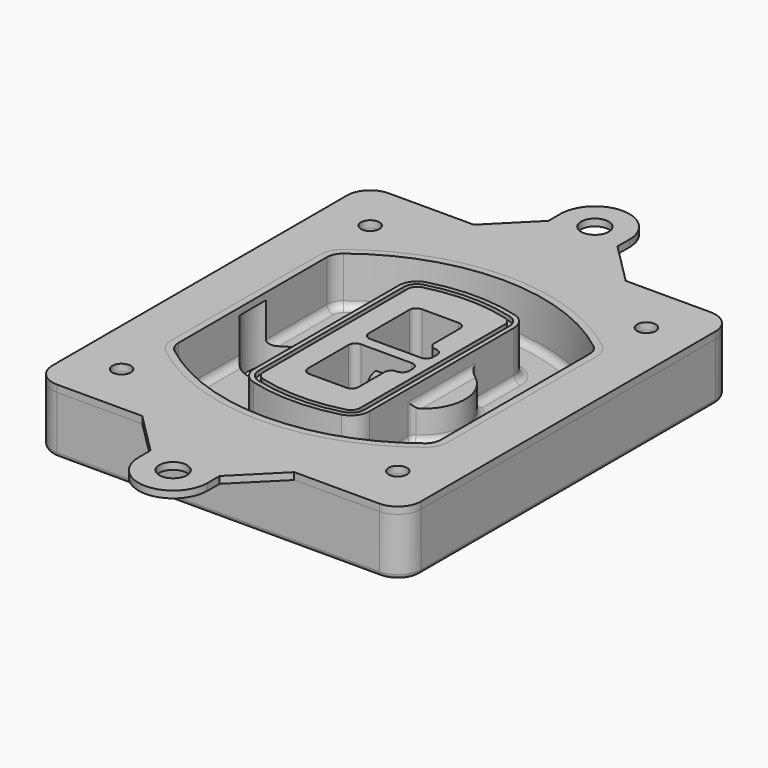
from build123d import *

# Parameters (mm, degrees)
F0_R      = 4
F1_DEPTH  = 25
F2_DEPTH  = 3
F3_DEPTH  = 18
F5_DEPTH  = 21
F6_DEPTH  = 2
F8_DEPTH  = 20
F9_DEPTH  = 16
F10_DEPTH = 25
F7_R      = 6
F7_R_2    = 4
F11_DEPTH = 6
F13_DEPTH = 9
F14_R     = 3
F15_R     = 2
F16_R     = 6
F16_R_2   = 4
F17_DEPTH = 3


with BuildPart() as f1:
    # F0 (on Top) → F1 (new body)
    with BuildSketch(Plane.XY):
        with BuildLine():
            ThreePointArc((-80, -80), (-77.0710678119, -87.0710678119), (-70, -90))
            Line((-70, -90), (70, -90))
            ThreePointArc((70, -90), (77.0710678119, -87.0710678119), (80, -80))
            Line((80, -80), (80, 80))
            ThreePointArc((80, 80), (77.0710678119, 87.0710678119), (70, 90))
            Line((70, 90), (-70, 90))
            ThreePointArc((-70, 90), (-77.0710678119, 87.0710678119), (-80, 80))
            Line((-80, 80), (-80, -80))
        make_face()
        with Locations((-60, -67.5)):
            Circle(F0_R, mode=Mode.SUBTRACT)
        with Locations((60, -67.5)):
            Circle(F0_R, mode=Mode.SUBTRACT)
        with Locations((-60, 67.5)):
            Circle(F0_R, mode=Mode.SUBTRACT)
        with BuildLine():
            ThreePointArc((-64, 40.2934422872), (-62.5820384798, 46.4328484224), (-58.6153846154, 51.3286200352))
            ThreePointArc((-58.6153846154, 51.3286200352), (0, 71.5), (58.6153846154, 51.3286200352))
            ThreePointArc((58.6153846154, 51.3286200352), (62.5820384798, 46.4328484224), (64, 40.2934422872))
            Line((64, 40.2934422872), (64, -40.2934422872))
            ThreePointArc((64, -40.2934422872), (62.5820384798, -46.4328484224), (58.6153846154, -51.3286200352))
            ThreePointArc((58.6153846154, -51.3286200352), (0, -71.5), (-58.6153846154, -51.3286200352))
            ThreePointArc((-58.6153846154, -51.3286200352), (-62.5820384798, -46.4328484224), (-64, -40.2934422872))
            Line((-64, -40.2934422872), (-64, 40.2934422872))
        make_face(mode=Mode.SUBTRACT)
        with Locations((60, 67.5)):
            Circle(F0_R, mode=Mode.SUBTRACT)
        with BuildLine():
            ThreePointArc((58.6153846154, 51.3286200352), (0, 71.5), (-58.6153846154, 51.3286200352))
            ThreePointArc((-58.6153846154, 51.3286200352), (-62.5820384798, 46.4328484224), (-64, 40.2934422872))
            Line((-64, 40.2934422872), (-64, -40.2934422872))
            ThreePointArc((-64, -40.2934422872), (-62.5820384798, -46.4328484224), (-58.6153846154, -51.3286200352))
            ThreePointArc((-58.6153846154, -51.3286200352), (0, -71.5), (58.6153846154, -51.3286200352))
            ThreePointArc((58.6153846154, -51.3286200352), (62.5820384798, -46.4328484224), (64, -40.2934422872))
            Line((64, -40.2934422872), (64, 40.2934422872))
            ThreePointArc((64, 40.2934422872), (62.5820384798, 46.4328484224), (58.6153846154, 51.3286200352))
        make_face()
        with BuildLine():
            Line((-60, -40.2934422872), (-60, 40.2934422872))
            ThreePointArc((-60, 40.2934422872), (-58.9871703427, 44.6787323838), (-56.1538461538, 48.1757121072))
            ThreePointArc((-56.1538461538, 48.1757121072), (0, 67.5), (56.1538461538, 48.1757121072))
            ThreePointArc((56.1538461538, 48.1757121072), (58.9871703427, 44.6787323838), (60, 40.2934422872))
            Line((60, 40.2934422872), (60, -40.2934422872))
            ThreePointArc((60, -40.2934422872), (58.9871703427, -44.6787323838), (56.1538461538, -48.1757121072))
            ThreePointArc((56.1538461538, -48.1757121072), (0, -67.5), (-56.1538461538, -48.1757121072))
            ThreePointArc((-56.1538461538, -48.1757121072), (-58.9871703427, -44.6787323838), (-60, -40.2934422872))
        make_face(mode=Mode.SUBTRACT)
        with BuildLine():
            ThreePointArc((-56.1538461538, 48.1757121072), (-58.9871703427, 44.6787323838), (-60, 40.2934422872))
            Line((-60, 40.2934422872), (-60, -40.2934422872))
            ThreePointArc((-60, -40.2934422872), (-58.9871703427, -44.6787323838), (-56.1538461538, -48.1757121072))
            ThreePointArc((-56.1538461538, -48.1757121072), (0, -67.5), (56.1538461538, -48.1757121072))
            ThreePointArc((56.1538461538, -48.1757121072), (58.9871703427, -44.6787323838), (60, -40.2934422872))
            Line((60, -40.2934422872), (60, 40.2934422872))
            ThreePointArc((60, 40.2934422872), (58.9871703427, 44.6787323838), (56.1538461538, 48.1757121072))
            ThreePointArc((56.1538461538, 48.1757121072), (0, 67.5), (-56.1538461538, 48.1757121072))
        make_face()
        with BuildLine():
            ThreePointArc((54.3076923077, 45.8110311612), (56.2910192399, 43.3631453548), (57, 40.2934422872))
            Line((57, 40.2934422872), (57, -40.2934422872))
            ThreePointArc((57, -40.2934422872), (56.2910192399, -43.3631453548), (54.3076923077, -45.8110311612))
            ThreePointArc((54.3076923077, -45.8110311612), (0, -64.5), (-54.3076923077, -45.8110311612))
            ThreePointArc((-54.3076923077, -45.8110311612), (-56.2910192399, -43.3631453548), (-57, -40.2934422872))
            Line((-57, -40.2934422872), (-57, 40.2934422872))
            ThreePointArc((-57, 40.2934422872), (-56.2910192399, 43.3631453548), (-54.3076923077, 45.8110311612))
            ThreePointArc((-54.3076923077, 45.8110311612), (0, 64.5), (54.3076923077, 45.8110311612))
        make_face(mode=Mode.SUBTRACT)
        with BuildLine():
            Line((57, -40.2934422872), (57, 40.2934422872))
            ThreePointArc((57, 40.2934422872), (56.2910192399, 43.3631453548), (54.3076923077, 45.8110311612))
            ThreePointArc((54.3076923077, 45.8110311612), (0, 64.5), (-54.3076923077, 45.8110311612))
            ThreePointArc((-54.3076923077, 45.8110311612), (-56.2910192399, 43.3631453548), (-57, 40.2934422872))
            Line((-57, 40.2934422872), (-57, -40.2934422872))
            ThreePointArc((-57, -40.2934422872), (-56.2910192399, -43.3631453548), (-54.3076923077, -45.8110311612))
            ThreePointArc((-54.3076923077, -45.8110311612), (0, -64.5), (54.3076923077, -45.8110311612))
            ThreePointArc((54.3076923077, -45.8110311612), (56.2910192399, -43.3631453548), (57, -40.2934422872))
        make_face()
    extrude(amount=-F1_DEPTH)

    # F0 (on Top) → F2 (join)
    with BuildSketch(Plane.XY):
        with BuildLine():
            ThreePointArc((-56.1538461538, 48.1757121072), (-58.9871703427, 44.6787323838), (-60, 40.2934422872))
            Line((-60, 40.2934422872), (-60, -40.2934422872))
            ThreePointArc((-60, -40.2934422872), (-58.9871703427, -44.6787323838), (-56.1538461538, -48.1757121072))
            ThreePointArc((-56.1538461538, -48.1757121072), (0, -67.5), (56.1538461538, -48.1757121072))
            ThreePointArc((56.1538461538, -48.1757121072), (58.9871703427, -44.6787323838), (60, -40.2934422872))
            Line((60, -40.2934422872), (60, 40.2934422872))
            ThreePointArc((60, 40.2934422872), (58.9871703427, 44.6787323838), (56.1538461538, 48.1757121072))
            ThreePointArc((56.1538461538, 48.1757121072), (0, 67.5), (-56.1538461538, 48.1757121072))
        make_face()
        with BuildLine():
            ThreePointArc((54.3076923077, 45.8110311612), (56.2910192399, 43.3631453548), (57, 40.2934422872))
            Line((57, 40.2934422872), (57, -40.2934422872))
            ThreePointArc((57, -40.2934422872), (56.2910192399, -43.3631453548), (54.3076923077, -45.8110311612))
            ThreePointArc((54.3076923077, -45.8110311612), (0, -64.5), (-54.3076923077, -45.8110311612))
            ThreePointArc((-54.3076923077, -45.8110311612), (-56.2910192399, -43.3631453548), (-57, -40.2934422872))
            Line((-57, -40.2934422872), (-57, 40.2934422872))
            ThreePointArc((-57, 40.2934422872), (-56.2910192399, 43.3631453548), (-54.3076923077, 45.8110311612))
            ThreePointArc((-54.3076923077, 45.8110311612), (0, 64.5), (54.3076923077, 45.8110311612))
        make_face(mode=Mode.SUBTRACT)
    extrude(amount=F2_DEPTH)

    # F0 (on Top) → F3 (cut)
    with BuildSketch(Plane.XY):
        with BuildLine():
            Line((57, -40.2934422872), (57, 40.2934422872))
            ThreePointArc((57, 40.2934422872), (56.2910192399, 43.3631453548), (54.3076923077, 45.8110311612))
            ThreePointArc((54.3076923077, 45.8110311612), (0, 64.5), (-54.3076923077, 45.8110311612))
            ThreePointArc((-54.3076923077, 45.8110311612), (-56.2910192399, 43.3631453548), (-57, 40.2934422872))
            Line((-57, 40.2934422872), (-57, -40.2934422872))
            ThreePointArc((-57, -40.2934422872), (-56.2910192399, -43.3631453548), (-54.3076923077, -45.8110311612))
            ThreePointArc((-54.3076923077, -45.8110311612), (0, -64.5), (54.3076923077, -45.8110311612))
            ThreePointArc((54.3076923077, -45.8110311612), (56.2910192399, -43.3631453548), (57, -40.2934422872))
        make_face()
    extrude(amount=-F3_DEPTH, mode=Mode.SUBTRACT)

    # F4 (on face) → F5 (join, through all)
    with BuildSketch(Plane.XY.offset(3)):
        with BuildLine():
            ThreePointArc((-25, -39.2465276821), (-23.3511545998, -44.1109737193), (-19.0842911877, -46.9702398883))
            ThreePointArc((-19.0842911877, -46.9702398883), (0, -49.5), (19.0842911877, -46.9702398883))
            ThreePointArc((19.0842911877, -46.9702398883), (23.3511545998, -44.1109737193), (25, -39.2465276821))
            Line((25, -39.2465276821), (25, 39.2465276821))
            ThreePointArc((25, 39.2465276821), (23.3511545998, 44.1109737193), (19.0842911877, 46.9702398883))
            ThreePointArc((19.0842911877, 46.9702398883), (0, 49.5), (-19.0842911877, 46.9702398883))
            ThreePointArc((-19.0842911877, 46.9702398883), (-23.3511545998, 44.1109737193), (-25, 39.2465276821))
            Line((-25, 39.2465276821), (-25, -39.2465276821))
        make_face()
        with BuildLine():
            ThreePointArc((18.5632183908, 45.0393118368), (21.7633659499, 42.89486221), (23, 39.2465276821))
            Line((23, 39.2465276821), (23, -39.2465276821))
            ThreePointArc((23, -39.2465276821), (21.7633659499, -42.89486221), (18.5632183908, -45.0393118368))
            ThreePointArc((18.5632183908, -45.0393118368), (0, -47.5), (-18.5632183908, -45.0393118368))
            ThreePointArc((-18.5632183908, -45.0393118368), (-21.7633659499, -42.89486221), (-23, -39.2465276821))
            Line((-23, -39.2465276821), (-23, 39.2465276821))
            ThreePointArc((-23, 39.2465276821), (-21.7633659499, 42.89486221), (-18.5632183908, 45.0393118368))
            ThreePointArc((-18.5632183908, 45.0393118368), (0, 47.5), (18.5632183908, 45.0393118368))
        make_face(mode=Mode.SUBTRACT)
        with BuildLine():
            Line((23, -39.2465276821), (23, 39.2465276821))
            ThreePointArc((23, 39.2465276821), (21.7633659499, 42.89486221), (18.5632183908, 45.0393118368))
            ThreePointArc((18.5632183908, 45.0393118368), (0, 47.5), (-18.5632183908, 45.0393118368))
            ThreePointArc((-18.5632183908, 45.0393118368), (-21.7633659499, 42.89486221), (-23, 39.2465276821))
            Line((-23, 39.2465276821), (-23, -39.2465276821))
            ThreePointArc((-23, -39.2465276821), (-21.7633659499, -42.89486221), (-18.5632183908, -45.0393118368))
            ThreePointArc((-18.5632183908, -45.0393118368), (0, -47.5), (18.5632183908, -45.0393118368))
            ThreePointArc((18.5632183908, -45.0393118368), (21.7633659499, -42.89486221), (23, -39.2465276821))
        make_face()
        with BuildLine():
            ThreePointArc((18.0421455939, 43.1083837852), (20.1755772999, 41.6787507007), (21, 39.2465276821))
            Line((21, 39.2465276821), (21, -39.2465276821))
            ThreePointArc((21, -39.2465276821), (20.1755772999, -41.6787507007), (18.0421455939, -43.1083837852))
            ThreePointArc((18.0421455939, -43.1083837852), (0, -45.5), (-18.0421455939, -43.1083837852))
            ThreePointArc((-18.0421455939, -43.1083837852), (-20.1755772999, -41.6787507007), (-21, -39.2465276821))
            Line((-21, -39.2465276821), (-21, 39.2465276821))
            ThreePointArc((-21, 39.2465276821), (-20.1755772999, 41.6787507007), (-18.0421455939, 43.1083837852))
            ThreePointArc((-18.0421455939, 43.1083837852), (0, 45.5), (18.0421455939, 43.1083837852))
        make_face(mode=Mode.SUBTRACT)
        with BuildLine():
            Line((21, -39.2465276821), (21, 39.2465276821))
            ThreePointArc((21, 39.2465276821), (20.1755772999, 41.6787507007), (18.0421455939, 43.1083837852))
            ThreePointArc((18.0421455939, 43.1083837852), (0, 45.5), (-18.0421455939, 43.1083837852))
            ThreePointArc((-18.0421455939, 43.1083837852), (-20.1755772999, 41.6787507007), (-21, 39.2465276821))
            Line((-21, 39.2465276821), (-21, -39.2465276821))
            ThreePointArc((-21, -39.2465276821), (-20.1755772999, -41.6787507007), (-18.0421455939, -43.1083837852))
            ThreePointArc((-18.0421455939, -43.1083837852), (0, -45.5), (18.0421455939, -43.1083837852))
            ThreePointArc((18.0421455939, -43.1083837852), (20.1755772999, -41.6787507007), (21, -39.2465276821))
        make_face()
        with BuildLine():
            Line((-8, -2.5), (14, -2.5))
            ThreePointArc((14, -2.5), (16.1213203436, -3.3786796564), (17, -5.5))
            Line((17, -5.5), (17, -7.5))
            ThreePointArc((17, -7.5), (16.1213203436, -9.6213203436), (14, -10.5))
            ThreePointArc((14, -10.5), (11.8786796564, -11.3786796564), (11, -13.5))
            Line((11, -13.5), (11, -27.5))
            ThreePointArc((11, -27.5), (10.1213203436, -29.6213203436), (8, -30.5))
            Line((8, -30.5), (-8, -30.5))
            ThreePointArc((-8, -30.5), (-10.1213203436, -29.6213203436), (-11, -27.5))
            Line((-11, -27.5), (-11, -5.5))
            ThreePointArc((-11, -5.5), (-10.1213203436, -3.3786796564), (-8, -2.5))
        make_face(mode=Mode.SUBTRACT)
        with BuildLine():
            ThreePointArc((-8, 2.5), (-10.1213203436, 3.3786796564), (-11, 5.5))
            Line((-11, 5.5), (-11, 27.5))
            ThreePointArc((-11, 27.5), (-10.1213203436, 29.6213203436), (-8, 30.5))
            Line((-8, 30.5), (8, 30.5))
            ThreePointArc((8, 30.5), (10.1213203436, 29.6213203436), (11, 27.5))
            Line((11, 27.5), (11, 13.5))
            ThreePointArc((11, 13.5), (11.8786796564, 11.3786796564), (14, 10.5))
            ThreePointArc((14, 10.5), (16.1213203436, 9.6213203436), (17, 7.5))
            Line((17, 7.5), (17, 5.5))
            ThreePointArc((17, 5.5), (16.1213203436, 3.3786796564), (14, 2.5))
            Line((14, 2.5), (-8, 2.5))
        make_face(mode=Mode.SUBTRACT)
    extrude(amount=-F5_DEPTH)

    # F4 (on face) → F6 (cut)
    with BuildSketch(Plane.XY.offset(3)):
        with BuildLine():
            Line((23, -39.2465276821), (23, 39.2465276821))
            ThreePointArc((23, 39.2465276821), (21.7633659499, 42.89486221), (18.5632183908, 45.0393118368))
            ThreePointArc((18.5632183908, 45.0393118368), (0, 47.5), (-18.5632183908, 45.0393118368))
            ThreePointArc((-18.5632183908, 45.0393118368), (-21.7633659499, 42.89486221), (-23, 39.2465276821))
            Line((-23, 39.2465276821), (-23, -39.2465276821))
            ThreePointArc((-23, -39.2465276821), (-21.7633659499, -42.89486221), (-18.5632183908, -45.0393118368))
            ThreePointArc((-18.5632183908, -45.0393118368), (0, -47.5), (18.5632183908, -45.0393118368))
            ThreePointArc((18.5632183908, -45.0393118368), (21.7633659499, -42.89486221), (23, -39.2465276821))
        make_face()
        with BuildLine():
            ThreePointArc((18.0421455939, 43.1083837852), (20.1755772999, 41.6787507007), (21, 39.2465276821))
            Line((21, 39.2465276821), (21, -39.2465276821))
            ThreePointArc((21, -39.2465276821), (20.1755772999, -41.6787507007), (18.0421455939, -43.1083837852))
            ThreePointArc((18.0421455939, -43.1083837852), (0, -45.5), (-18.0421455939, -43.1083837852))
            ThreePointArc((-18.0421455939, -43.1083837852), (-20.1755772999, -41.6787507007), (-21, -39.2465276821))
            Line((-21, -39.2465276821), (-21, 39.2465276821))
            ThreePointArc((-21, 39.2465276821), (-20.1755772999, 41.6787507007), (-18.0421455939, 43.1083837852))
            ThreePointArc((-18.0421455939, 43.1083837852), (0, 45.5), (18.0421455939, 43.1083837852))
        make_face(mode=Mode.SUBTRACT)
    extrude(amount=-F6_DEPTH, mode=Mode.SUBTRACT)

    # F7 (on face) → F8 (join)
    with BuildSketch(Plane(origin=(0, 0, -25), x_dir=(1, 0, 0), z_dir=(0, 0, -1))):
        with BuildLine():
            ThreePointArc((3.28842436, 0), (16.7567035675, 13.4682792075), (30.224982775, 0))
            Line((30.224982775, 0), (35.224982775, 0))
            ThreePointArc((35.224982775, 0), (16.7567035675, 18.4682792075), (-1.71157564, 0))
            Line((-1.71157564, 0), (3.28842436, 0))
        make_face()
        with BuildLine():
            Line((3.28842436, 0), (30.224982775, 0))
            ThreePointArc((30.224982775, 0), (16.7567035675, 13.4682792075), (3.28842436, 0))
        make_face()
        with BuildLine():
            ThreePointArc((3.28842436, 0), (16.7567035675, -13.4682792075), (30.224982775, 0))
            Line((30.224982775, 0), (3.28842436, 0))
        make_face()
        with BuildLine():
            Line((35.224982775, 0), (30.224982775, 0))
            ThreePointArc((30.224982775, 0), (16.7567035675, -13.4682792075), (3.28842436, 0))
            Line((3.28842436, 0), (-1.71157564, 0))
            ThreePointArc((-1.71157564, 0), (16.7567035675, -18.4682792075), (35.224982775, 0))
        make_face()
    extrude(amount=-F8_DEPTH)

    # F7 (on face) → F9 (cut)
    with BuildSketch(Plane(origin=(0, 0, -25), x_dir=(1, 0, 0), z_dir=(0, 0, -1))):
        with BuildLine():
            Line((3.28842436, 0), (30.224982775, 0))
            ThreePointArc((30.224982775, 0), (16.7567035675, 13.4682792075), (3.28842436, 0))
        make_face()
        with BuildLine():
            ThreePointArc((3.28842436, 0), (16.7567035675, -13.4682792075), (30.224982775, 0))
            Line((30.224982775, 0), (3.28842436, 0))
        make_face()
    extrude(amount=-F9_DEPTH, mode=Mode.SUBTRACT)

    # F7 (on face) → F10 (cut)
    with BuildSketch(Plane(origin=(0, 0, -25), x_dir=(1, 0, 0), z_dir=(0, 0, -1))):
        with BuildLine():
            Line((-59.0318229325, 0), (-32.0952645175, 0))
            ThreePointArc((-32.0952645175, 0), (-45.563543725, 13.4682792075), (-59.0318229325, 0))
        make_face()
        with BuildLine():
            ThreePointArc((-59.0318229325, 0), (-45.563543725, -13.4682792075), (-32.0952645175, 0))
            Line((-32.0952645175, 0), (-59.0318229325, 0))
        make_face()
    extrude(amount=-F10_DEPTH, mode=Mode.SUBTRACT)

    # F7 (on face) → F11 (cut)
    with BuildSketch(Plane(origin=(0, 0, -25), x_dir=(1, 0, 0), z_dir=(0, 0, -1))):
        with Locations((60, -67.5)):
            Circle(F7_R)
        with Locations((60, -67.5)):
            Circle(F7_R_2, mode=Mode.SUBTRACT)
        with Locations((60, -67.5)):
            Circle(F7_R)
        with Locations((60, -67.5)):
            Circle(F7_R_2, mode=Mode.SUBTRACT)
        with Locations((-60, -67.5)):
            Circle(F7_R)
        with Locations((-60, -67.5)):
            Circle(F7_R_2, mode=Mode.SUBTRACT)
        with Locations((-60, -67.5)):
            Circle(F7_R)
        with Locations((-60, -67.5)):
            Circle(F7_R_2, mode=Mode.SUBTRACT)
        with Locations((-60, 67.5)):
            Circle(F7_R)
        with Locations((-60, 67.5)):
            Circle(F7_R_2, mode=Mode.SUBTRACT)
        with Locations((-60, 67.5)):
            Circle(F7_R)
        with Locations((-60, 67.5)):
            Circle(F7_R_2, mode=Mode.SUBTRACT)
        with Locations((60, 67.5)):
            Circle(F7_R)
        with Locations((60, 67.5)):
            Circle(F7_R_2, mode=Mode.SUBTRACT)
        with Locations((60, 67.5)):
            Circle(F7_R)
        with Locations((60, 67.5)):
            Circle(F7_R_2, mode=Mode.SUBTRACT)
    extrude(amount=-F11_DEPTH, mode=Mode.SUBTRACT)

    # F12 (on face) → F13 (cut, through all)
    with BuildSketch(Plane(origin=(0, 0, -9), x_dir=(1, 0, 0), z_dir=(0, 0, -1))):
        with BuildLine():
            Line((11, 13.5), (11, 17.5481537753))
            ThreePointArc((11, 17.5481537753), (2.5696536419, 11.8239143813), (-1.5415842455, 2.5))
            Line((-1.5415842455, 2.5), (3.5224848595, 2.5))
            ThreePointArc((3.5224848595, 2.5), (6.1857188154, 8.3455872281), (11.2536447004, 12.2927168648))
            ThreePointArc((11.2536447004, 12.2927168648), (11.0640958889, 12.8831798879), (11, 13.5))
        make_face()
        with BuildLine():
            ThreePointArc((11.2536447004, -12.2927168648), (6.1857188154, -8.3455872281), (3.5224848595, -2.5))
            Line((3.5224848595, -2.5), (-1.5415842455, -2.5))
            ThreePointArc((-1.5415842455, -2.5), (2.5696536419, -11.8239143813), (11, -17.5481537753))
            Line((11, -17.5481537753), (11, -13.5))
            ThreePointArc((11, -13.5), (11.0640958889, -12.8831798879), (11.2536447004, -12.2927168648))
        make_face()
        with BuildLine():
            ThreePointArc((11.2536447004, 12.2927168648), (6.1857188154, 8.3455872281), (3.5224848595, 2.5))
            Line((3.5224848595, 2.5), (14, 2.5))
            ThreePointArc((14, 2.5), (16.1213203436, 3.3786796564), (17, 5.5))
            Line((17, 5.5), (17, 7.5))
            ThreePointArc((17, 7.5), (16.1213203436, 9.6213203436), (14, 10.5))
            ThreePointArc((14, 10.5), (12.3601599782, 10.9878446101), (11.2536447004, 12.2927168648))
        make_face()
        with BuildLine():
            Line((14, -2.5), (3.5224848595, -2.5))
            ThreePointArc((3.5224848595, -2.5), (6.1857188154, -8.3455872281), (11.2536447004, -12.2927168648))
            ThreePointArc((11.2536447004, -12.2927168648), (12.3601599782, -10.9878446101), (14, -10.5))
            ThreePointArc((14, -10.5), (16.1213203436, -9.6213203436), (17, -7.5))
            Line((17, -7.5), (17, -5.5))
            ThreePointArc((17, -5.5), (16.1213203436, -3.3786796564), (14, -2.5))
        make_face()
    extrude(amount=F13_DEPTH, mode=Mode.SUBTRACT)

    # F14
    f14_edges = [f1.edges().sort_by_distance(p)[0] for p in [
        (-57, -23.703476, -18),
        (-57, 23.703476, -18),
        (25, 0, -5),
        (25, 16.526506, -11.5),
        (25, -16.526506, -11.5),
        (25, -27.886517, -18),
        (35.224983, 0, -18),
    ]]
    fillet(f14_edges, radius=F14_R)

    # F15
    f15_edges = [f1.edges().sort_by_distance(p)[0] for p in [
        (0, -90, -25),
    ]]
    fillet(f15_edges, radius=F15_R)


with BuildPart() as f17:
    # F16 (on face) → F17 (new body, through all)
    with BuildSketch(Plane.XY):
        with BuildLine():
            Line((-15, 108), (-33, 90))
            Line((-33, 90), (33, 90))
            Line((33, 90), (15, 108))
            Line((15, 108), (15, 114.5147186258))
            ThreePointArc((15, 114.5147186258), (0, 129.5147186258), (-15, 114.5147186258))
            Line((-15, 114.5147186258), (-15, 108))
        make_face()
        with Locations((0, 114.5147186258)):
            Circle(F16_R, mode=Mode.SUBTRACT)
        with BuildLine():
            Line((33, 90), (-33, 90))
            Line((-33, 90), (-70, 90))
            ThreePointArc((-70, 90), (-77.0710678119, 87.0710678119), (-80, 80))
            Line((-80, 80), (-80, -80))
            ThreePointArc((-80, -80), (-77.0710678119, -87.0710678119), (-70, -90))
            Line((-70, -90), (-33, -90))
            Line((-33, -90), (33, -90))
            Line((33, -90), (70, -90))
            ThreePointArc((70, -90), (77.0710678119, -87.0710678119), (80, -80))
            Line((80, -80), (80, 80))
            ThreePointArc((80, 80), (77.0710678119, 87.0710678119), (70, 90))
            Line((70, 90), (33, 90))
        make_face()
        with Locations((-60, -67.5)):
            Circle(F16_R_2, mode=Mode.SUBTRACT)
        with Locations((60, -67.5)):
            Circle(F16_R_2, mode=Mode.SUBTRACT)
        with Locations((-60, 67.5)):
            Circle(F16_R_2, mode=Mode.SUBTRACT)
        with BuildLine():
            ThreePointArc((-60, 40.2934422872), (-58.9871703427, 44.6787323838), (-56.1538461538, 48.1757121072))
            ThreePointArc((-56.1538461538, 48.1757121072), (0, 67.5), (56.1538461538, 48.1757121072))
            ThreePointArc((56.1538461538, 48.1757121072), (58.9871703427, 44.6787323838), (60, 40.2934422872))
            Line((60, 40.2934422872), (60, -40.2934422872))
            ThreePointArc((60, -40.2934422872), (58.9871703427, -44.6787323838), (56.1538461538, -48.1757121072))
            ThreePointArc((56.1538461538, -48.1757121072), (0, -67.5), (-56.1538461538, -48.1757121072))
            ThreePointArc((-56.1538461538, -48.1757121072), (-58.9871703427, -44.6787323838), (-60, -40.2934422872))
            Line((-60, -40.2934422872), (-60, 40.2934422872))
        make_face(mode=Mode.SUBTRACT)
        with Locations((60, 67.5)):
            Circle(F16_R_2, mode=Mode.SUBTRACT)
        with BuildLine():
            Line((33, -90), (-33, -90))
            Line((-33, -90), (-15, -108))
            Line((-15, -108), (-15, -114.5147186258))
            ThreePointArc((-15, -114.5147186258), (0, -129.5147186258), (15, -114.5147186258))
            Line((15, -114.5147186258), (15, -108))
            Line((15, -108), (33, -90))
        make_face()
        with Locations((0, -114.5147186258)):
            Circle(F16_R, mode=Mode.SUBTRACT)
    extrude(amount=F17_DEPTH)


solid = Compound([f1.part, f17.part])
